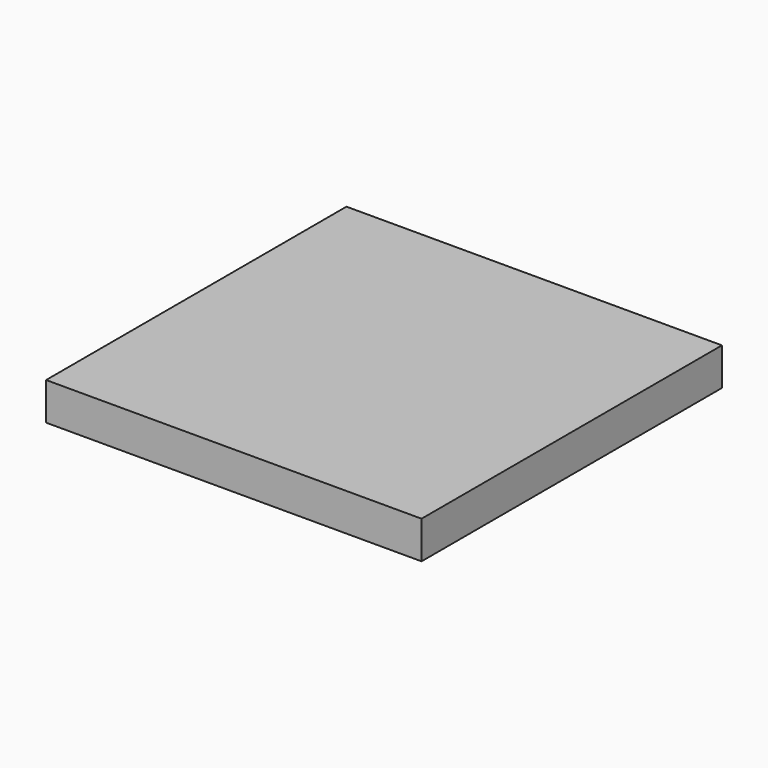
from build123d import *

# Parameters (mm, degrees)
SKETCH_W  = 30
SKETCH_H  = 30
PAD_DEPTH = 3


with BuildPart() as part:
    # Sketch → Pad (new body)
    with BuildSketch(Plane.XY):
        with Locations((15, 15)):
            Rectangle(SKETCH_W, SKETCH_H)
    extrude(amount=PAD_DEPTH)


solid = part.part
